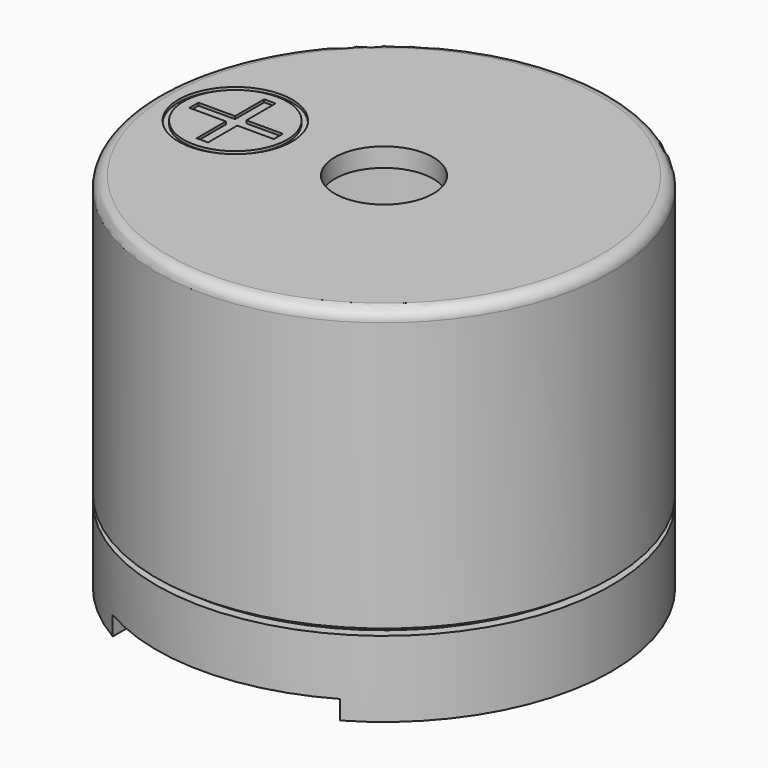
from build123d import *

# Parameters (mm, degrees)
BOX_W                     = 0.6
BOX_H                     = 0.4
BOX_DEPTH                 = 2.5
BOX002_W                  = 0.6
BOX002_H                  = 0.4
BOX002_DEPTH              = 2.5
CYLINDER002_R             = 5.5
CYLINDER002_DEPTH         = 2
FUSION002_PLACEMENT_ANGLE = 90
BOX001_W                  = 6
BOX001_H                  = 15
BOX001_DEPTH              = 0.5
CUT005_PLACEMENT_ANGLE    = 90
PAD003_DEPTH              = 5
SKETCH004_R               = 1.5
SKETCH004_R_2             = 1.365842
PAD004_DEPTH              = 5
FILLET_R                  = 0.3
FUSION001_PLACEMENT_ANGLE = 90


with BuildPart() as obj1:
    # Box → Box (new body)
    with BuildSketch(Plane(origin=(2.95, -0.2, -2), x_dir=(1, 0, 0), z_dir=(0, 0, 1))):
        with Locations((0.3, 0.2)):
            Rectangle(BOX_W, BOX_H)
    extrude(amount=BOX_DEPTH)


with BuildPart() as obj2:
    # Box002 → Box002 (new body)
    with BuildSketch(Plane(origin=(-3.55, -0.2, -2), x_dir=(1, 0, 0), z_dir=(0, 0, 1))):
        with Locations((0.3, 0.2)):
            Rectangle(BOX002_W, BOX002_H)
    extrude(amount=BOX002_DEPTH)


with BuildPart() as interior_buzzer:
    # Cylinder002 → Cylinder002 (new body)
    with BuildSketch(Plane.XY):
        Circle(CYLINDER002_R)
    extrude(amount=CYLINDER002_DEPTH)

    # Fusion002: union obj1, obj2
    add(obj1.part)
    add(obj2.part)


with BuildPart() as interior_buzzer_1:
    # Fusion002 placement: moved
    add(interior_buzzer.part.moved(Location((0, 0, 0.5))).rotate(Axis((0, 0, 0.5), (0, 0, 1)), FUSION002_PLACEMENT_ANGLE))


with BuildPart() as obj3:
    # Box001 → Box001 (new body)
    with BuildSketch(Plane(origin=(-3, -7, 0), x_dir=(1, 0, 0), z_dir=(0, 0, 1))):
        with Locations((3, 7.5)):
            Rectangle(BOX001_W, BOX001_H)
    extrude(amount=BOX001_DEPTH)


with BuildPart() as obj4:
    # Sketch002 → Revolution001 (revolve)
    with BuildSketch(Plane.XZ):
        Polygon((5.5, 2.5), (5.5, 0), (6, 0), (6, 2), (5.75, 2), (5.75, 2.5), align=None)
    revolve(axis=Axis((0, 0, 0), (0, 0, 1)))

    # Cut005: cut obj3
    add(obj3.part, mode=Mode.SUBTRACT)


with BuildPart() as obj4_1:
    # Cut005 placement: moved
    add(obj4.part.rotate(Axis((0, 0, 0), (0, 0, 1)), CUT005_PLACEMENT_ANGLE))


with BuildPart() as obj5:
    # Sketch005 → Pad003 (new body)
    with BuildSketch(Plane.XY.offset(9.5)):
        Polygon((-0.15, 5.014959), (0.15, 5.014959), (0.15, 4.051414), (1.113545, 4.051414), (1.113545, 3.751414), (0.15, 3.751414), (0.15, 2.787869), (-0.15, 2.787869), (-0.15, 3.751414), (-1.113545, 3.751414), (-1.113545, 4.051414), (-0.15, 4.051414), align=None)
    extrude(amount=PAD003_DEPTH)


with BuildPart() as obj6:
    # Sketch004 → Pad004 (new body)
    with BuildSketch(Plane.XY.offset(9.5)):
        with Locations((0, 3.923361)):
            Circle(SKETCH004_R)
        with Locations((0, 3.923361)):
            Circle(SKETCH004_R_2, mode=Mode.SUBTRACT)
    extrude(amount=PAD004_DEPTH)


with BuildPart() as buzzer:
    # Sketch003 → Revolution (revolve)
    with BuildSketch(Plane.XZ):
        Polygon((1.3, 9.57124), (6, 9.57124), (6, 2.17124), (5.75, 2.17124), (5.75, 2.57124), (5.5, 2.57124), (5.5, 9.07124), (1.3, 9.07124), align=None)
    revolve(axis=Axis((0, 0, 0), (0, 0, 1)))

    # Fillet
    fillet_edges = [buzzer.edges().sort_by_distance(p)[0] for p in [
        (-6, 0, 9.57124),
    ]]
    fillet(fillet_edges, radius=FILLET_R)

    # Cut004: cut obj6
    add(obj6.part, mode=Mode.SUBTRACT)

    # Cut003: cut obj5
    add(obj5.part, mode=Mode.SUBTRACT)

    # Fusion001: union Interior_buzzer, obj4
    add(interior_buzzer_1.part)
    add(obj4_1.part)


with BuildPart() as buzzer_1:
    # Fusion001 placement: moved
    add(buzzer.part.moved(Location((0, 4, 1.7))).rotate(Axis((0, 4, 1.7), (0, 0, 1)), FUSION001_PLACEMENT_ANGLE))


solid = buzzer_1.part
